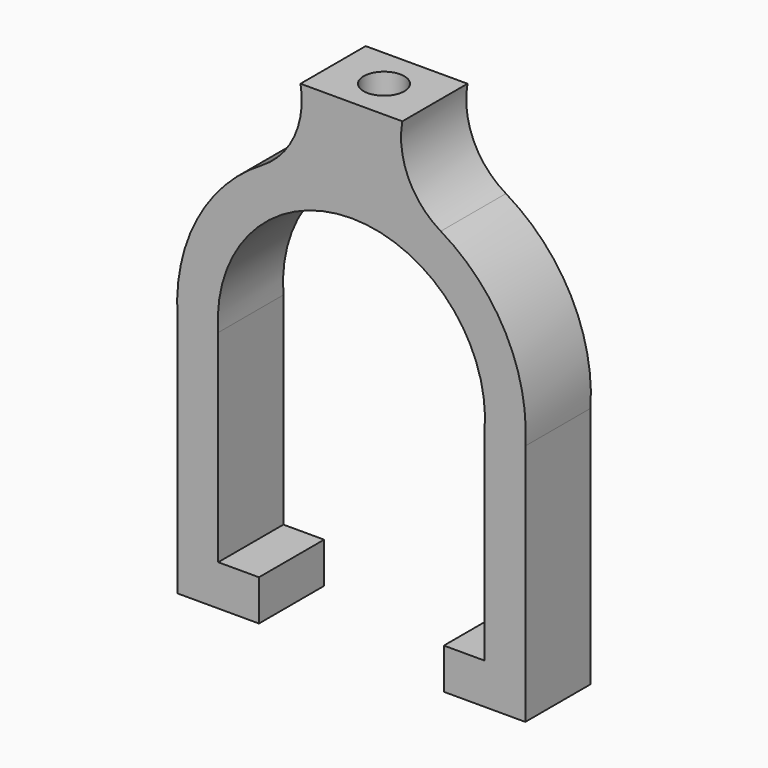
from build123d import *

# Parameters (mm, degrees)
F1_DEPTH = 12.7
F2_R     = 3.175
F3_DEPTH = 25.4


with BuildPart() as f1:
    # F0 (on Front) → F1 (new body)
    with BuildSketch(Plane.XZ):
        with BuildLine():
            Line((-20.7645, -33.147), (-20.7645, -1.625153))
            ThreePointArc((-20.7645, -1.625153), (0, 20.828), (20.7645, -1.625153))
            Line((20.7645, -1.625153), (20.7645, -33.147))
            Line((20.7645, -33.147), (14.4145, -33.147))
            Line((14.4145, -33.147), (14.4145, -39.497))
            Line((14.4145, -39.497), (27.1145, -39.497))
            Line((27.1145, -39.497), (27.1145, -1.625153))
            ThreePointArc((27.1145, -1.625153), (24.080006, 12.833079), (13.930541, 23.567929))
            ThreePointArc((13.930541, 23.567929), (8.88597, 29.201016), (7.9375, 36.703))
            Line((7.9375, 36.703), (0, 36.703))
            Line((0, 36.703), (-7.9375, 36.703))
            ThreePointArc((-7.9375, 36.703), (-8.88597, 29.201016), (-13.930541, 23.567929))
            ThreePointArc((-13.930541, 23.567929), (-24.080006, 12.833079), (-27.1145, -1.625153))
            Line((-27.1145, -1.625153), (-27.1145, -39.497))
            Line((-27.1145, -39.497), (-14.4145, -39.497))
            Line((-14.4145, -39.497), (-14.4145, -33.147))
            Line((-14.4145, -33.147), (-20.7645, -33.147))
        make_face()
    extrude(amount=F1_DEPTH)

    # F2 (on face) → F3 (cut)
    with BuildSketch(Plane.XY.offset(36.703)):
        with Locations((0, -6.35)):
            Circle(F2_R)
    extrude(amount=-F3_DEPTH, mode=Mode.SUBTRACT)


solid = f1.part
